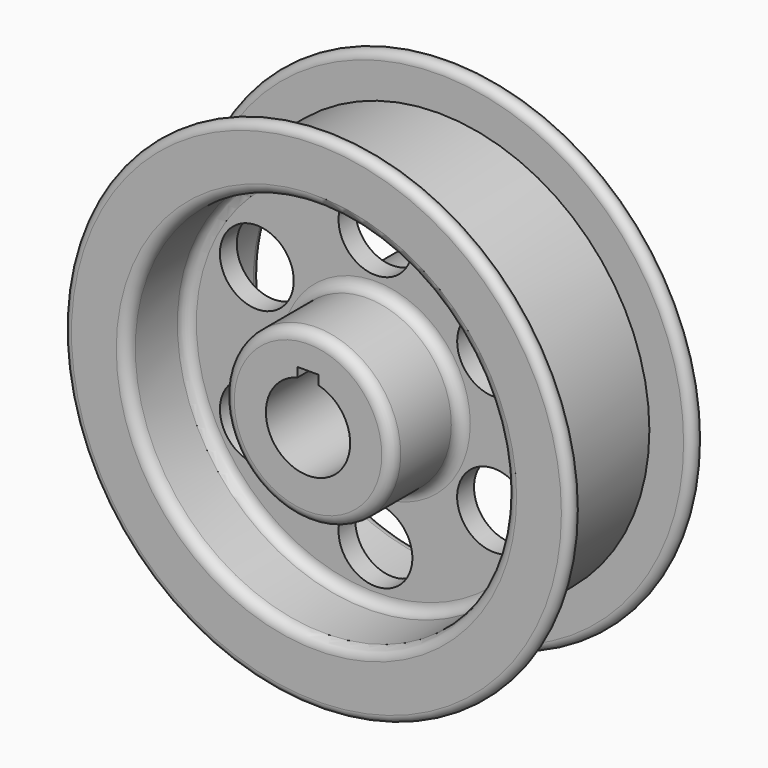
from build123d import *

# Parameters (mm, degrees)
SKETCH_R           = 11.125
POCKET_DEPTH       = 477.700067
POLARPATTERN_COUNT = 6
SKETCH002_W        = 6.35
SKETCH002_H        = 3.175
POCKET001_DEPTH    = 57.151


with BuildPart() as part:
    # Sketch001 → Revolution (revolve)
    with BuildSketch(Plane.XY):
        with BuildLine():
            Line((12.7, 57.15), (22.225, 57.15))
            ThreePointArc((25.4, 53.975), (24.470064, 56.220064), (22.225, 57.15))
            Line((25.4, 53.975), (25.4, 34.925))
            ThreePointArc((25.4, 34.925), (26.329936, 32.679936), (28.575, 31.75))
            Line((28.575, 31.75), (53.975, 31.75))
            ThreePointArc((53.975, 31.75), (56.220064, 32.679936), (57.15, 34.925))
            Line((57.15, 34.925), (57.15, 50.8))
            ThreePointArc((60.325, 53.975), (58.079936, 53.045064), (57.15, 50.8))
            Line((60.325, 53.975), (73.81875, 53.975))
            ThreePointArc((73.81875, 49.2125), (76.2, 51.59375), (73.81875, 53.975))
            Line((73.81875, 49.2125), (63.5, 49.2125))
            Line((63.5, 49.2125), (63.5, 7.9375))
            Line((63.5, 7.9375), (73.81875, 7.9375))
            ThreePointArc((73.81875, 3.175), (76.2, 5.55625), (73.81875, 7.9375))
            Line((73.81875, 3.175), (60.325, 3.175))
            ThreePointArc((57.15, 6.35), (58.079936, 4.104936), (60.325, 3.175))
            Line((57.15, 6.35), (57.15, 22.225))
            ThreePointArc((57.15, 22.225), (56.220064, 24.470064), (53.975, 25.4))
            Line((53.975, 25.4), (28.575, 25.4))
            ThreePointArc((28.575, 25.4), (26.329936, 24.470064), (25.4, 22.225))
            Line((25.4, 22.225), (25.4, 3.175))
            ThreePointArc((22.225, 0), (24.470064, 0.929936), (25.4, 3.175))
            Line((22.225, 0), (12.7, 0))
            Line((12.7, 57.15), (12.7, 0))
        make_face()
    revolve(axis=Axis((0, 0, 0), (0, 1, 0)))

    # Sketch → Pocket (cut, through all)
    with BuildSketch(Plane.XZ.offset(-25.4)):
        with Locations((0, 41.275)):
            Circle(SKETCH_R)
    pocket = extrude(amount=-POCKET_DEPTH, mode=Mode.SUBTRACT)

    # PolarPattern: Pocket ×6 about axis
    polarpattern_axis = Axis((0, 25.4, 0), (0, -1, 0))
    for i in range(1, POLARPATTERN_COUNT):
        add(pocket.rotate(polarpattern_axis, i * 360 / POLARPATTERN_COUNT), mode=Mode.SUBTRACT)

    # Sketch002 → Pocket001 (cut, through all)
    with BuildSketch(Plane.XZ):
        with Locations((0, 13.518551)):
            Rectangle(SKETCH002_W, SKETCH002_H)
    extrude(amount=-POCKET001_DEPTH, mode=Mode.SUBTRACT)


solid = part.part
